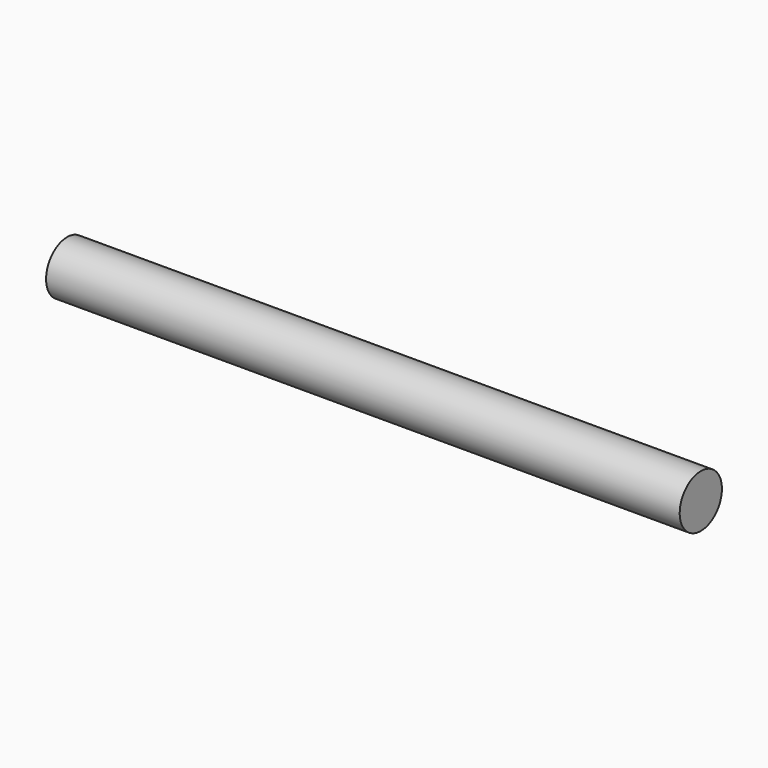
from build123d import *

# Parameters (mm, degrees)
F0_W     = 7315.2
F0_H     = 304.8
F2_R     = 14.2875
F3_DEPTH = 76.2


with BuildPart() as f1:
    # F0 (on Front) → F1 (revolve)
    with BuildSketch(Plane.XZ):
        with Locations((-3657.6, 152.4)):
            Rectangle(F0_W, F0_H)
    revolve(axis=Axis((-3657.6, 0, 0), (-1, 0, 0)))

    # F2 (on face) → F3 (cut)
    with BuildSketch(Plane(origin=(-7315.2, 0, 0), x_dir=(0, -1, 0), z_dir=(-1, 0, 0))):
        Circle(F2_R)
    extrude(amount=-F3_DEPTH, mode=Mode.SUBTRACT)


solid = f1.part
